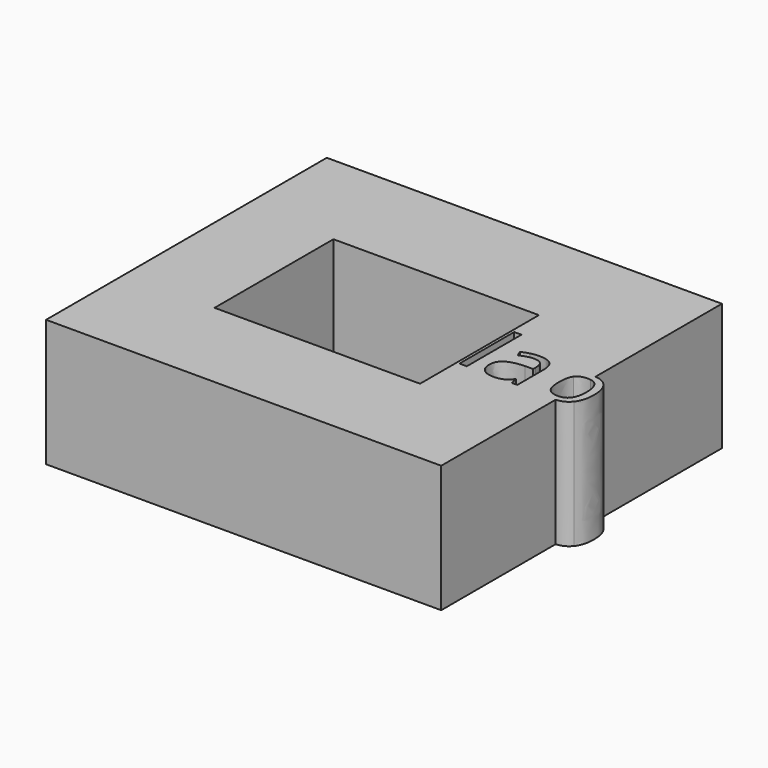
from build123d import *

# Parameters (mm, degrees)
F0_W     = 1.4345356546
F0_H     = 13.4415161623
F1_DEPTH = 25


with BuildPart() as f1:
    # F0 (on Top) → F1 (new body)
    with BuildSketch(Plane.XY):
        Polygon((-19.7263322771, 14.6005926654), (-37.4334342778, 35.1035520434), (-37.4334342778, -33.8609479368), (-19.7263322771, -14.6005926654), align=None)
        Polygon((40.2292944491, 35.1035520434), (-37.4334342778, 35.1035520434), (-19.7263322771, 14.6005926654), (20.6582844257, 14.6005926654), align=None)
        with BuildLine():
            Line((40.2292944491, 4.0209012059), (40.2292944491, 35.1035520434))
            Line((40.2292944491, 35.1035520434), (20.6582844257, 14.6005926654))
            Line((20.6582844257, 14.6005926654), (20.6582844257, -14.6005926654))
            Line((20.6582844257, -14.6005926654), (40.2292944491, -33.8609479368))
            Line((40.2292944491, -33.8609479368), (40.2292944491, -5.7565652547))
            add(Edge.make_bspline(
                [(40.2292944491, -5.7565652547), (40.0783549242, -5.7658505375), (39.9216058908, -5.7658505375)],
                knots=[0.915231448, 0.915231448, 0.915231448, 1, 1, 1], degree=2))
            add(Edge.make_bspline(
                [(39.9216058908, -5.7658505375), (38.9956532043, -5.7658505375), (38.2313967333, -5.4244918605)],
                knots=[0, 0, 0, 1, 1, 1], degree=2))
            add(Edge.make_bspline(
                [(38.2313967333, -5.4244918605), (37.4671402622, -5.0831331836), (36.9502651805, -4.372775451)],
                knots=[0, 0, 0, 1, 1, 1], degree=2))
            Line((36.9502651805, -4.372775451), (36.8452317414, -4.372775451))
            Line((36.8452317414, -4.372775451), (36.5439516136, -5.5917161517))
            Line((36.5439516136, -5.5917161517), (35.5157295259, -5.5917161517))
            Line((35.5157295259, -5.5917161517), (35.5157295259, 7.8498000106))
            Line((35.5157295259, 7.8498000106), (36.9502651805, 7.8498000106))
            Line((36.9502651805, 7.8498000106), (36.9502651805, 4.5827072481))
            add(Edge.make_bspline(
                [(36.9502651805, 4.5827072481), (36.9502651805, 3.4853842137), (36.8811642337, 2.6147122846)],
                knots=[0, 0, 0, 1, 1, 1], degree=2))
            Line((36.8811642337, 2.6147122846), (36.9502651805, 2.6147122846))
            add(Edge.make_bspline(
                [(36.9502651805, 2.6147122846), (37.9508468894, 4.0298996741), (39.9216058908, 4.0298996741)],
                knots=[0, 0, 0, 1, 1, 1], degree=2))
            add(Edge.make_bspline(
                [(39.9216058908, 4.0298996741), (40.0783927276, 4.0298996741), (40.2292944491, 4.0209012059)],
                knots=[0, 0, 0, 0.0840353158, 0.0840353158, 0.0840353158], degree=2))
        make_face()
        with BuildLine():
            Line((32.5637370806, -5.5917161517), (31.4995825007, -5.5917161517))
            Line((31.4995825007, -5.5917161517), (31.2148866, -4.2428656711))
            Line((31.2148866, -4.2428656711), (31.1457856533, -4.2428656711))
            add(Edge.make_bspline(
                [(31.1457856533, -4.2428656711), (30.4381919585, -5.1328858652), (29.7347443206, -5.4493682014)],
                knots=[0, 0, 0, 1, 1, 1], degree=2))
            add(Edge.make_bspline(
                [(29.7347443206, -5.4493682014), (29.0312966827, -5.7658505375), (27.9754342163, -5.7658505375)],
                knots=[0, 0, 0, 1, 1, 1], degree=2))
            add(Edge.make_bspline(
                [(27.9754342163, -5.7658505375), (26.5685389404, -5.7658505375), (25.769731996, -5.0389085777)],
                knots=[0, 0, 0, 1, 1, 1], degree=2))
            add(Edge.make_bspline(
                [(25.769731996, -5.0389085777), (24.9709250515, -4.3119666178), (24.9709250515, -2.9741722887)],
                knots=[0, 0, 0, 1, 1, 1], degree=2))
            add(Edge.make_bspline(
                [(24.9709250515, -2.9741722887), (24.9709250515, -0.1078650174), (29.556463878, 0.0303368761)],
                knots=[0, 0, 0, 1, 1, 1], degree=2))
            Line((29.556463878, 0.0303368761), (31.1623698805, 0.0828535956))
            Line((31.1623698805, 0.0828535956), (31.1623698805, 0.6715936619))
            add(Edge.make_bspline(
                [(31.1623698805, 0.6715936619), (31.1623698805, 1.7855009236), (30.684191329, 2.3161961946)],
                knots=[0, 0, 0, 1, 1, 1], degree=2))
            add(Edge.make_bspline(
                [(30.684191329, 2.3161961946), (30.2060127774, 2.8468914657), (29.1501503111, 2.8468914657)],
                knots=[0, 0, 0, 1, 1, 1], degree=2))
            add(Edge.make_bspline(
                [(29.1501503111, 2.8468914657), (27.9671421027, 2.8468914657), (26.4745616528, 2.1227135437)],
                knots=[0, 0, 0, 1, 1, 1], degree=2))
            Line((26.4745616528, 2.1227135437), (26.0323155936, 3.2200365782))
            add(Edge.make_bspline(
                [(26.0323155936, 3.2200365782), (26.7316171747, 3.5987097664), (27.5649745926, 3.8143047202)],
                knots=[0, 0, 0, 1, 1, 1], degree=2))
            add(Edge.make_bspline(
                [(27.5649745926, 3.8143047202), (28.3983320104, 4.0298996741), (29.2385995229, 4.0298996741)],
                knots=[0, 0, 0, 1, 1, 1], degree=2))
            add(Edge.make_bspline(
                [(29.2385995229, 4.0298996741), (30.9301906994, 4.0298996741), (31.74696389, 3.2794633924)],
                knots=[0, 0, 0, 1, 1, 1], degree=2))
            add(Edge.make_bspline(
                [(31.74696389, 3.2794633924), (32.5637370806, 2.5290271106), (32.5637370806, 0.8706043886)],
                knots=[0, 0, 0, 1, 1, 1], degree=2))
            Line((32.5637370806, 0.8706043886), (32.5637370806, -5.5917161517))
        make_face(mode=Mode.SUBTRACT)
        with Locations((21.9208092619, 1.1290419294)):
            Rectangle(F0_W, F0_H, mode=Mode.SUBTRACT)
        Polygon((-19.7263322771, -14.6005926654), (-37.4334342778, -33.8609479368), (40.2292944491, -33.8609479368), (20.6582844257, -14.6005926654), align=None)
        with BuildLine():
            add(Edge.make_bspline(
                [(40.2292944491, 4.0209012059), (41.8740868362, 3.9228200715), (42.8196995976, 2.755678216)],
                knots=[0.0840353158, 0.0840353158, 0.0840353158, 1, 1, 1], degree=2))
            Line((40.2292944491, 4.0209012059), (40.2292944491, 2.7938202111))
            add(Edge.make_bspline(
                [(41.7168484874, 1.9237028171), (41.1987126844, 2.6484300811), (40.2292944491, 2.7938202111)],
                knots=[0, 0, 0, 0.7993864214, 0.7993864214, 0.7993864214], degree=2))
            add(Edge.make_bspline(
                [(42.365015368, -0.8320429394), (42.365015368, 1.0170983957), (41.7168484874, 1.9237028171)],
                knots=[0, 0, 0, 1, 1, 1], degree=2))
            add(Edge.make_bspline(
                [(41.7168484874, -3.6002268663), (42.365015368, -2.6369596686), (42.365015368, -0.8320429394)],
                knots=[0, 0, 0, 1, 1, 1], degree=2))
            add(Edge.make_bspline(
                [(40.2292944491, -4.528094354), (41.1929364436, -4.378833891), (41.7168484874, -3.6002268663)],
                knots=[0.1917019218, 0.1917019218, 0.1917019218, 1, 1, 1], degree=2))
            Line((40.2292944491, -4.528094354), (40.2292944491, -5.7565652547))
            add(Edge.make_bspline(
                [(42.811407484, -4.4736628332), (41.8589624891, -5.6563136569), (40.2292944491, -5.7565652547)],
                knots=[0, 0, 0, 0.915231448, 0.915231448, 0.915231448], degree=2))
            add(Edge.make_bspline(
                [(43.8520677421, -0.8486271666), (43.8520677421, -3.181475129), (42.811407484, -4.4736628332)],
                knots=[0, 0, 0, 1, 1, 1], degree=2))
            add(Edge.make_bspline(
                [(42.8196995976, 2.755678216), (43.8520677421, 1.4814567579), (43.8520677421, -0.8486271666)],
                knots=[0, 0, 0, 1, 1, 1], degree=2))
        make_face()
        with BuildLine():
            Line((40.2292944491, 2.7938202111), (40.2292944491, 4.0209012059))
            add(Edge.make_bspline(
                [(39.9216058908, 4.0298996741), (40.0783927276, 4.0298996741), (40.2292944491, 4.0209012059)],
                knots=[0, 0, 0, 0.0840353158, 0.0840353158, 0.0840353158], degree=2))
            add(Edge.make_bspline(
                [(36.9502651805, 2.6147122846), (37.9508468894, 4.0298996741), (39.9216058908, 4.0298996741)],
                knots=[0, 0, 0, 1, 1, 1], degree=2))
            Line((36.9502651805, 2.6147122846), (36.8811642337, 2.6147122846))
            add(Edge.make_bspline(
                [(36.9502651805, 4.5827072481), (36.9502651805, 3.4853842137), (36.8811642337, 2.6147122846)],
                knots=[0, 0, 0, 1, 1, 1], degree=2))
            Line((36.9502651805, 4.5827072481), (36.9502651805, 7.8498000106))
            Line((36.9502651805, 7.8498000106), (35.5157295259, 7.8498000106))
            Line((35.5157295259, 7.8498000106), (35.5157295259, -5.5917161517))
            Line((35.5157295259, -5.5917161517), (36.5439516136, -5.5917161517))
            Line((36.5439516136, -5.5917161517), (36.8452317414, -4.372775451))
            Line((36.8452317414, -4.372775451), (36.9502651805, -4.372775451))
            add(Edge.make_bspline(
                [(38.2313967333, -5.4244918605), (37.4671402622, -5.0831331836), (36.9502651805, -4.372775451)],
                knots=[0, 0, 0, 1, 1, 1], degree=2))
            add(Edge.make_bspline(
                [(39.9216058908, -5.7658505375), (38.9956532043, -5.7658505375), (38.2313967333, -5.4244918605)],
                knots=[0, 0, 0, 1, 1, 1], degree=2))
            add(Edge.make_bspline(
                [(40.2292944491, -5.7565652547), (40.0783549242, -5.7658505375), (39.9216058908, -5.7658505375)],
                knots=[0.915231448, 0.915231448, 0.915231448, 1, 1, 1], degree=2))
            Line((40.2292944491, -5.7565652547), (40.2292944491, -4.528094354))
            add(Edge.make_bspline(
                [(39.747471505, -4.563494064), (40.0007500207, -4.563494064), (40.2292944491, -4.528094354)],
                knots=[0, 0, 0, 0.1917019218, 0.1917019218, 0.1917019218], degree=2))
            add(Edge.make_bspline(
                [(37.6150162882, -3.7038782864), (38.279767396, -4.563494064), (39.747471505, -4.563494064)],
                knots=[0, 0, 0, 1, 1, 1], degree=2))
            add(Edge.make_bspline(
                [(36.9502651805, -0.8486271666), (36.9502651805, -2.8442625088), (37.6150162882, -3.7038782864)],
                knots=[0, 0, 0, 1, 1, 1], degree=2))
            add(Edge.make_bspline(
                [(37.598432061, 1.988657707), (36.9502651805, 1.1470081756), (36.9502651805, -0.8486271666)],
                knots=[0, 0, 0, 1, 1, 1], degree=2))
            add(Edge.make_bspline(
                [(39.7143030506, 2.8303072385), (38.2465989415, 2.8303072385), (37.598432061, 1.988657707)],
                knots=[0, 0, 0, 1, 1, 1], degree=2))
            add(Edge.make_bspline(
                [(40.2292944491, 2.7938202111), (39.9860097796, 2.8303072385), (39.7143030506, 2.8303072385)],
                knots=[0.7993864214, 0.7993864214, 0.7993864214, 1, 1, 1], degree=2))
        make_face()
    extrude(amount=F1_DEPTH)


solid = f1.part
